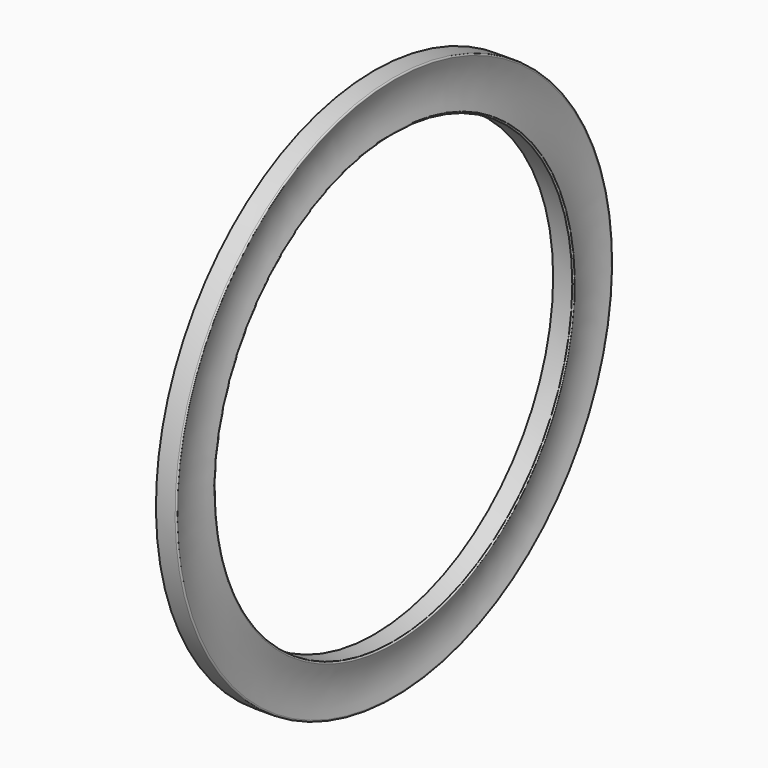
from build123d import *


with BuildPart() as f1:
    # F0 (on Front) → F1 (revolve)
    with BuildSketch(Plane.XZ):
        with BuildLine():
            ThreePointArc((-0.034799, 16.587492), (-0.045264, 16.65615), (-0.107085, 16.6878))
            Line((-0.107085, 16.6878), (-1.277829, 16.6878))
            Line((-1.277829, 16.6878), (-1.277829, 13.6906))
            Line((-1.277829, 13.6906), (-0.107085, 13.6906))
            ThreePointArc((-0.107085, 13.6906), (-0.045264, 13.72225), (-0.034799, 13.790908))
            ThreePointArc((-0.034799, 13.790908), (-0.261829, 15.1892), (-0.034799, 16.587492))
        make_face()
    revolve(axis=Axis((-3.079263, 0, 0), (-1, 0, 0)))


solid = f1.part
